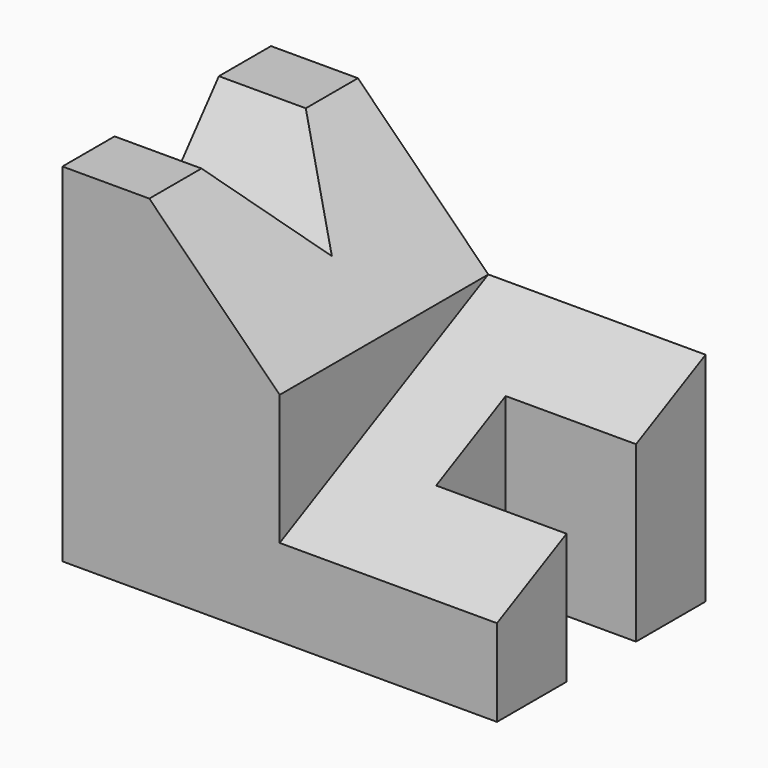
from build123d import *

# Parameters (mm, degrees)
F1_DEPTH = 30
F3_DEPTH = 50.001
F5_DEPTH = 25
F6_DEPTH = 15


with BuildPart() as f1:
    # F0 (on Front) → F1 (new body)
    with BuildSketch(Plane.XZ):
        Polygon((0, 40), (0, 0), (50, 0), (50, 25), (25, 25), (10, 40), align=None)
    extrude(amount=F1_DEPTH)

    # F2 (on face) → F3 (cut, through all)
    with BuildSketch(Plane(origin=(0, 0, 0), x_dir=(0, -1, 0), z_dir=(-1, 0, 0))):
        Polygon((7.5, 40), (15, 31), (22.5, 40), align=None)
    extrude(amount=-F3_DEPTH, mode=Mode.SUBTRACT)

    # F4 (on face) → F5 (cut, through all)
    with BuildSketch(Plane.YZ.offset(50)):
        Polygon((-10, 20), (0, 25), (-30, 25), (-30, 10), (-20, 15), align=None)
    extrude(amount=-F5_DEPTH, mode=Mode.SUBTRACT)

    # F4 (on face) → F6 (cut)
    with BuildSketch(Plane.YZ.offset(50)):
        Polygon((-10, 0), (-10, 20), (-20, 15), (-20, 0), align=None)
    extrude(amount=-F6_DEPTH, mode=Mode.SUBTRACT)


solid = f1.part
